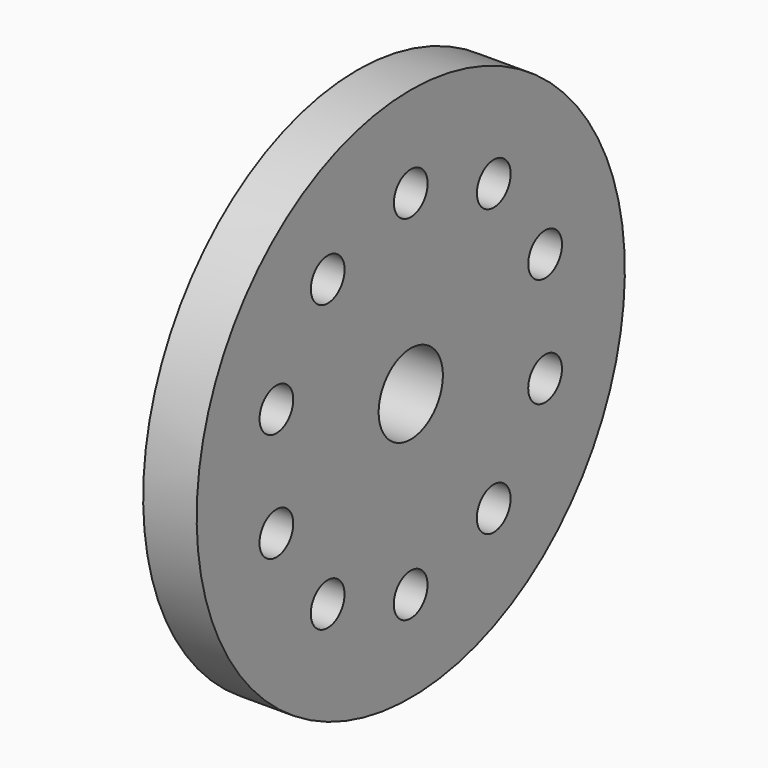
from build123d import *

# Parameters (mm, degrees)
F2_R     = 5.003382
F3_DEPTH = 25.4


with BuildPart() as f1:
    # F0 (on Front) → F1 (revolve)
    with BuildSketch(Plane.XZ):
        Polygon((-12.446881, 29.466899), (-25.146881, 29.466899), (-25.146881, -8.633101), (-37.846881, -8.633101), (-37.846881, -24.508101), (-12.446881, -24.508101), align=None)
    revolve(axis=Axis((-29.13227, 0, -34.033101), (1, 0, 0)))

    # F2 (on face) → F3 (cut)
    with BuildSketch(Plane(origin=(-25.146881, 0, 0), x_dir=(0, -1, 0), z_dir=(-1, 0, 0))):
        with Locations((0, 7.876899)):
            Circle(F2_R)
        with Locations((24.628547, -0.123179)):
            Circle(F2_R)
        with Locations((39.85455, -21.069191)):
            Circle(F2_R)
        with Locations((39.865114, -46.964488)):
            Circle(F2_R)
        with Locations((24.656207, -67.922916)):
            Circle(F2_R)
        with Locations((-24.60087, -67.963106)):
            Circle(F2_R)
        with Locations((0.034196, -75.943087)):
            Circle(F2_R)
        with Locations((-39.843959, -47.029525)):
            Circle(F2_R)
        with Locations((-39.85455, -21.069191)):
            Circle(F2_R)
        with Locations((-24.628547, -0.123179)):
            Circle(F2_R)
    extrude(amount=-F3_DEPTH, mode=Mode.SUBTRACT)


solid = f1.part
